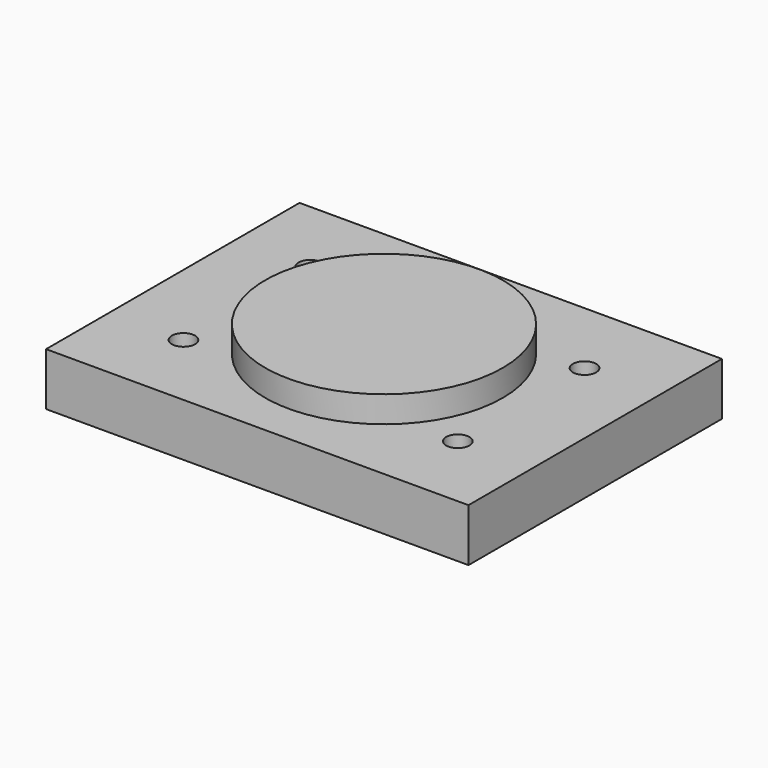
from build123d import *

# Parameters (mm, degrees)
F0_W     = 50.8
F0_H     = 38.1
F1_DEPTH = 6.35
F2_R     = 14.2875
F3_DEPTH = 3.175
F4_R     = 1.397
F5_DEPTH = 6.35


with BuildPart() as f1:
    # F0 (on Top) → F1 (new body)
    with BuildSketch(Plane.XY):
        with Locations((25.4, 19.05)):
            Rectangle(F0_W, F0_H)
    extrude(amount=F1_DEPTH)

    # F2 (on face) → F3 (join)
    with BuildSketch(Plane.XY.offset(6.35)):
        with Locations((25.4, 19.05)):
            Circle(F2_R)
    extrude(amount=F3_DEPTH)

    # F4 (on face) → F5 (cut, through all)
    with BuildSketch(Plane.XY.offset(6.35)):
        with Locations((8.902216, 28.575)):
            Circle(F4_R)
        with Locations((41.897784, 28.575)):
            Circle(F4_R)
        with Locations((41.897784, 9.525)):
            Circle(F4_R)
        with Locations((8.902216, 9.525)):
            Circle(F4_R)
    extrude(amount=-F5_DEPTH, mode=Mode.SUBTRACT)


solid = f1.part
